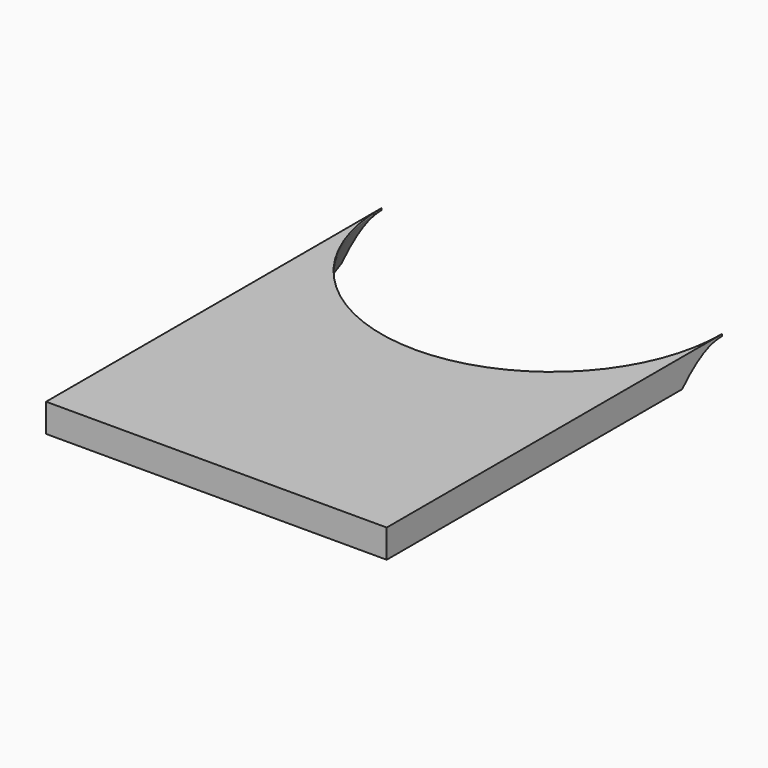
from build123d import *

# Parameters (mm, degrees)
F0_W          = 12
F0_H          = 14.76
F1_DEPTH      = 1
F3_DEPTH      = 25.4
F3_DEPTH_BACK = 25.4
F4_SIZE2      = 0.9330127019
F4_SIZE       = 0.25


with BuildPart() as f1:
    # F0 (on Top) → F1 (new body)
    with BuildSketch(Plane.XY):
        Rectangle(F0_W, F0_H)
    extrude(amount=F1_DEPTH)

    # F2 (on face) → F3 (cut, two sides)
    with BuildSketch(Plane.XY.offset(1)) as f3_sk:
        with BuildLine():
            ThreePointArc((-6, 7.38), (0, 1.38), (6, 7.38))
            Line((6, 7.38), (-6, 7.38))
        make_face()
    extrude(amount=-F3_DEPTH, mode=Mode.SUBTRACT)
    extrude(f3_sk.sketch, amount=F3_DEPTH_BACK, mode=Mode.SUBTRACT)

    # F4
    f4_edges = [f1.edges().sort_by_distance(p)[0] for p in [
        (0, 1.38, 0),
    ]]
    f4_side = f1.faces().sort_by_distance((0, -2.26695, 0))[0]
    chamfer(f4_edges, length=F4_SIZE, length2=F4_SIZE2, reference=f4_side)


solid = f1.part
